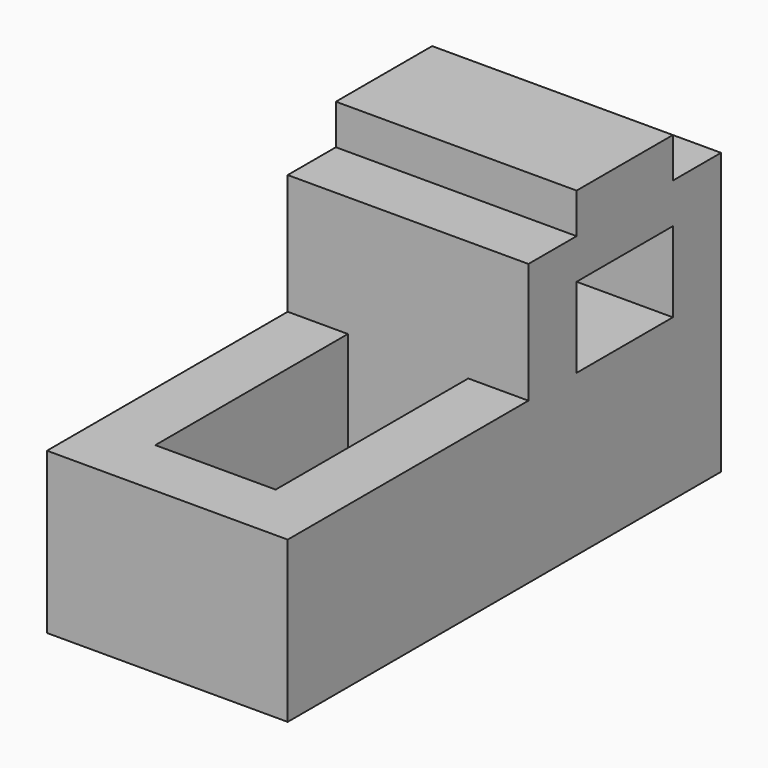
from build123d import *

# Parameters (mm, degrees)
F1_DEPTH = 1219.2
F2_W     = 609.6
F2_H     = 406.4
F3_DEPTH = 1219.201
F4_W     = 609.6
F4_H     = 1219.2
F5_DEPTH = 609.6


with BuildPart() as f1:
    # F0 (on Right) → F1 (new body)
    with BuildSketch(Plane.YZ):
        Polygon((-58.377925, 812.8), (-58.377925, 0), (2684.822075, 0), (2684.822075, 1422.4), (2380.022075, 1422.4), (2380.022075, 1625.6), (1770.422075, 1625.6), (1770.422075, 1422.4), (1465.622075, 1422.4), (1465.622075, 812.8), align=None)
    extrude(amount=F1_DEPTH)

    # F2 (on face) → F3 (cut, through all)
    with BuildSketch(Plane.YZ.offset(1219.2)):
        with Locations((2075.222075, 1016)):
            Rectangle(F2_W, F2_H)
    extrude(amount=-F3_DEPTH, mode=Mode.SUBTRACT)

    # F4 (on face) → F5 (cut)
    with BuildSketch(Plane.XY.offset(812.8)):
        with Locations((609.6, 856.022075)):
            Rectangle(F4_W, F4_H)
    extrude(amount=-F5_DEPTH, mode=Mode.SUBTRACT)


solid = f1.part
